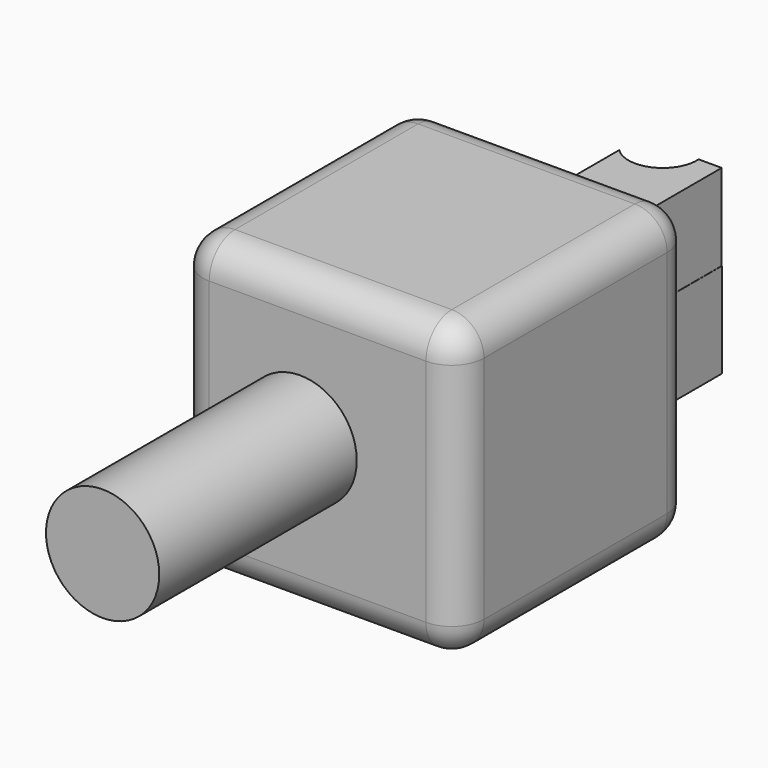
from build123d import *

# Parameters (mm, degrees)
F0_W      = 110.8079440892
F0_H      = 115.9970648587
F1_DEPTH  = 115.57
F2_R      = 12.7
F3_R      = 22.3167764272
F4_DEPTH  = 97.282
F6_DEPTH  = 109.982
F7_DEPTH  = 25.4
F8_DEPTH  = 19.812
F9_R      = 13.4648701689
F10_DEPTH = 133.604
F11_DEPTH = 54.102


with BuildPart() as f1:
    # F0 (on Front) → F1 (new body)
    with BuildSketch(Plane.XZ):
        with Locations((-2.3461002856, -1.9405316561)):
            Rectangle(F0_W, F0_H)
    extrude(amount=F1_DEPTH)

    # F2
    f2_edges = [f1.edges().sort_by_distance(p)[0] for p in [
        (-2.3461, -115.57, 56.058001),
        (53.057872, -57.785, 56.058001),
        (-2.3461, 0, 56.058001),
        (-57.750072, -57.785, 56.058001),
        (53.057872, -115.57, -1.940532),
        (53.057872, 0, -1.940532),
        (-57.750072, -115.57, -1.940532),
        (-57.750072, 0, -1.940532),
        (-57.750072, -57.785, -59.939064),
        (-2.3461, 0, -59.939064),
        (-2.3461, -115.57, -59.939064),
        (53.057872, -57.785, -59.939064),
    ]]
    fillet(f2_edges, radius=F2_R)

    # F5 (on face) → F6 (join)
    with BuildSketch(Plane(origin=(0, 0, 0), x_dir=(-1, 0, 0), z_dir=(0, 1, 0))):
        Polygon((-19.7372511029, 0), (0, 0), (12.3010706156, 0), (12.3010706156, 34.0015627444), (-19.7372511029, 34.0015627444), align=None)
        Polygon((12.3010706156, 0), (0, 0), (0, -37.3447611928), (24.6021412313, -37.3447611928), (24.6021412313, 0), align=None)
    extrude(amount=F6_DEPTH)

    # F7 (add): faces of the model
    f7_faces = [f1.faces().sort_by_distance(p)[0] for p in [
        (0, 54.991, -18.6723805964),
        (19.7372511029, 54.991, 17.0007813722),
    ]]
    extrude(f7_faces, amount=-F7_DEPTH)

    # F8 (add): a face of the model
    f8_faces = [f1.faces().sort_by_distance(p)[0] for p in [
        (0, 54.991, -18.6723805964),
    ]]
    extrude(f8_faces, amount=F8_DEPTH)

    # F9 (on face) → F10 (cut)
    with BuildSketch(Plane(origin=(0, 0, -37.3447611928), x_dir=(1, 0, 0), z_dir=(0, 0, -1))):
        with Locations((-2.794, -54.991)):
            Circle(F9_R)
    extrude(amount=-F10_DEPTH, mode=Mode.SUBTRACT)

    # F11 (cut): a face of the model
    f11_faces = [f1.faces().sort_by_distance(p)[0] for p in [
        (-0.2401786117, 109.982, -4.6825738498),
    ]]
    extrude(f11_faces, amount=-F11_DEPTH, mode=Mode.SUBTRACT)


with BuildPart() as f4:
    # F3 (on face) → F4 (new body)
    with BuildSketch(Plane.XZ.offset(115.57)):
        with Locations((-9.2316931114, 0)):
            Circle(F3_R)
    extrude(amount=F4_DEPTH)


solid = Compound([f1.part, f4.part])
